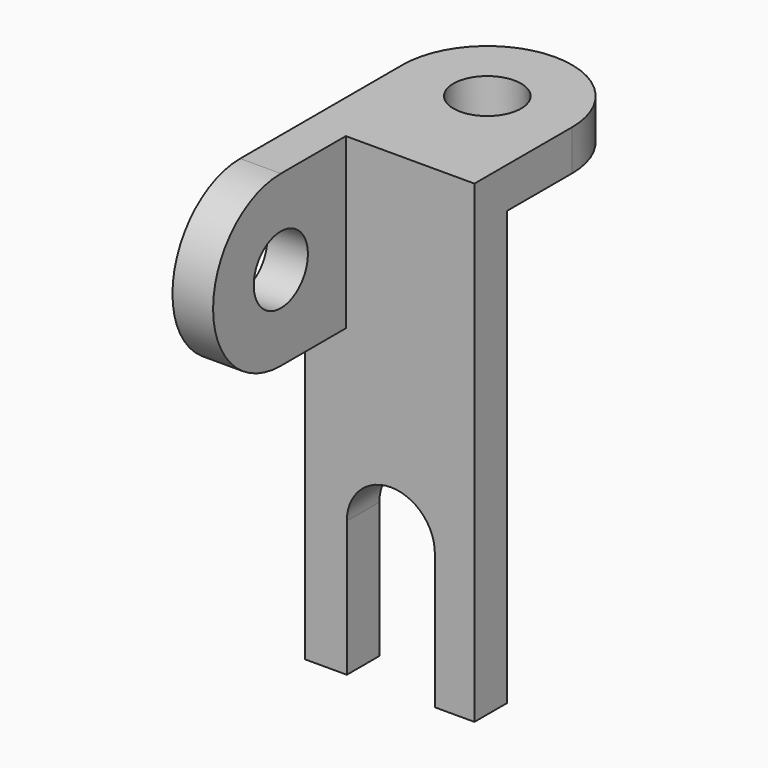
from build123d import *

# Parameters (mm, degrees)
F0_W      = 25
F0_H      = 64
F1_DEPTH  = 6
F2_W      = 25
F2_H      = 6
F3_DEPTH  = 6
F5_DEPTH  = 6
F7_D      = 10
F7_DEPTH  = 13
F7_TIP    = 3.0043030951
F9_D      = 10
F9_DEPTH  = 13
F9_TIP    = 3.0043030951
F11_DEPTH = 12.4


with BuildPart() as f1:
    # F0 (on Front) → F1 (new body)
    with BuildSketch(Plane.XZ):
        Rectangle(F0_W, F0_H)
    extrude(amount=F1_DEPTH)

    # F2 (on face) → F3 (join)
    with BuildSketch(Plane.XY.offset(32)):
        with BuildLine():
            Line((-12.5, 12), (-12.5, 0))
            Line((-12.5, 0), (12.5, 0))
            Line((12.5, 0), (12.5, 12))
            ThreePointArc((12.5, 12), (0, 24.5), (-12.5, 12))
        make_face()
        with Locations((0, -3)):
            Rectangle(F2_W, F2_H)
    extrude(amount=F3_DEPTH)

    # F4 (on face) → F5 (join)
    with BuildSketch(Plane(origin=(-12.5, 0, 0), x_dir=(0, -1, 0), z_dir=(-1, 0, 0))):
        with BuildLine():
            Line((6, 38), (6, 13))
            Line((6, 13), (18, 13))
            ThreePointArc((18, 13), (30.5, 25.5), (18, 38))
            Line((18, 38), (6, 38))
        make_face()
    extrude(amount=-F5_DEPTH)

    # F7
    with Locations(Plane.XY.offset(38)):
        with Locations((0, 12)):
            Hole(F7_D / 2, depth=F7_DEPTH)
            with Locations((0, 0, -(F7_DEPTH + F7_TIP / 2))):  # 118° drill point
                Cone(0, F7_D / 2, F7_TIP, mode=Mode.SUBTRACT)

    # F9
    with Locations(Plane(origin=(-12.5, 0, 0), x_dir=(0, -1, 0), z_dir=(-1, 0, 0))):
        with Locations((18, 25.5)):
            Hole(F9_D / 2, depth=F9_DEPTH)
            with Locations((0, 0, -(F9_DEPTH + F9_TIP / 2))):  # 118° drill point
                Cone(0, F9_D / 2, F9_TIP, mode=Mode.SUBTRACT)

    # F10 (on face) → F11 (cut)
    with BuildSketch(Plane(origin=(0, 0, 0), x_dir=(-1, 0, 0), z_dir=(0, 1, 0))):
        with BuildLine():
            Line((-6.6569247283, -12), (-6.6569247283, -32))
            Line((-6.6569247283, -32), (6.3430752717, -32))
            Line((6.3430752717, -32), (6.3430752717, -12))
            ThreePointArc((6.3430752717, -12), (-0.1569247283, -5.5), (-6.6569247283, -12))
        make_face()
    extrude(amount=-F11_DEPTH, mode=Mode.SUBTRACT)


solid = f1.part
